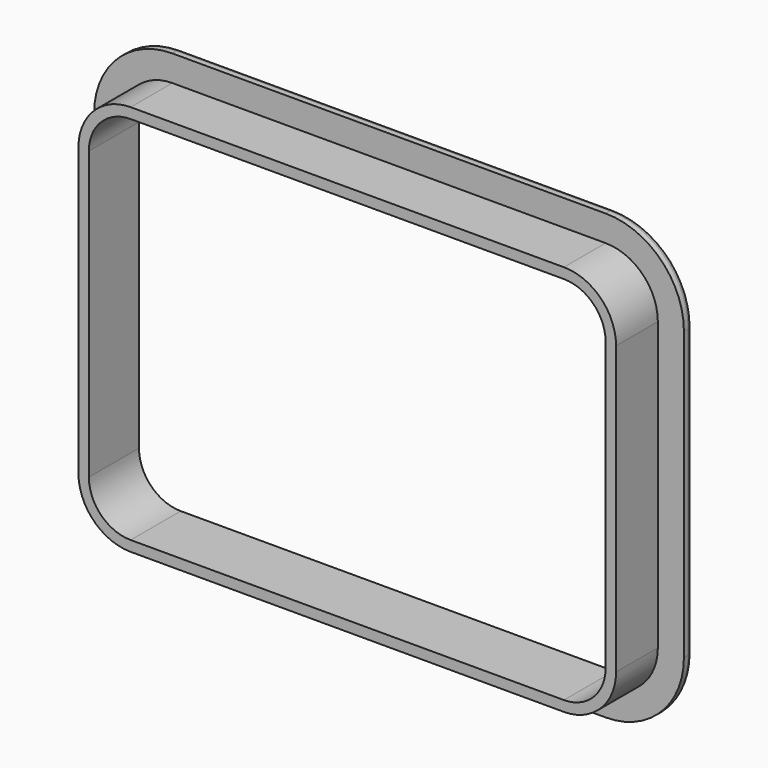
from build123d import *

# Parameters (mm, degrees)
PAD_DEPTH    = 2
PAD001_DEPTH = 10
POCKET_DEPTH = 12.001
FILLET_R     = 1


with BuildPart() as part:
    # Sketch → Pad (new body)
    with BuildSketch(Plane.XZ):
        with BuildLine():
            ThreePointArc((15, 85), (4.393398, 80.606602), (0, 70))
            Line((0, 15), (0, 70))
            ThreePointArc((0, 15), (4.393398, 4.393398), (15, 0))
            Line((98, 0), (15, 0))
            ThreePointArc((98, 0), (108.606602, 4.393398), (113, 15))
            Line((113, 70), (113, 15))
            ThreePointArc((113, 70), (108.606602, 80.606602), (98, 85))
            Line((15, 85), (98, 85))
        make_face()
    extrude(amount=PAD_DEPTH)

    # Sketch001 (on Face10 of Pad) → Pad001 (join)
    with BuildSketch(Plane.XZ.offset(2)):
        with BuildLine():
            ThreePointArc((15, 80), (7.928932, 77.071068), (5, 70))
            Line((5, 15), (5, 70))
            ThreePointArc((5, 15), (7.928932, 7.928932), (15, 5))
            Line((98, 5), (15, 5))
            ThreePointArc((98, 5), (105.071068, 7.928932), (108, 15))
            Line((108, 70), (108, 15))
            ThreePointArc((108, 70), (105.071068, 77.071068), (98, 80))
            Line((15, 80), (98, 80))
        make_face()
    extrude(amount=PAD001_DEPTH)

    # Sketch002 (on Face19 of Pad001) → Pocket (cut, through all)
    with BuildSketch(Plane.XZ.offset(12)):
        with BuildLine():
            ThreePointArc((15, 78), (9.343146, 75.656854), (7, 70))
            Line((7, 15), (7, 70))
            ThreePointArc((7, 15), (9.343146, 9.343146), (15, 7))
            Line((98, 7), (15, 7))
            ThreePointArc((98, 7), (103.656854, 9.343146), (106, 15))
            Line((106, 70), (106, 15))
            ThreePointArc((106, 70), (103.656854, 75.656854), (98, 78))
            Line((15, 78), (98, 78))
        make_face()
    extrude(amount=-POCKET_DEPTH, mode=Mode.SUBTRACT)

    # Fillet
    fillet_edges = [part.edges().sort_by_distance(p)[0] for p in [
        (56.5, 0, 85),
    ]]
    fillet(fillet_edges, radius=FILLET_R)


solid = part.part
